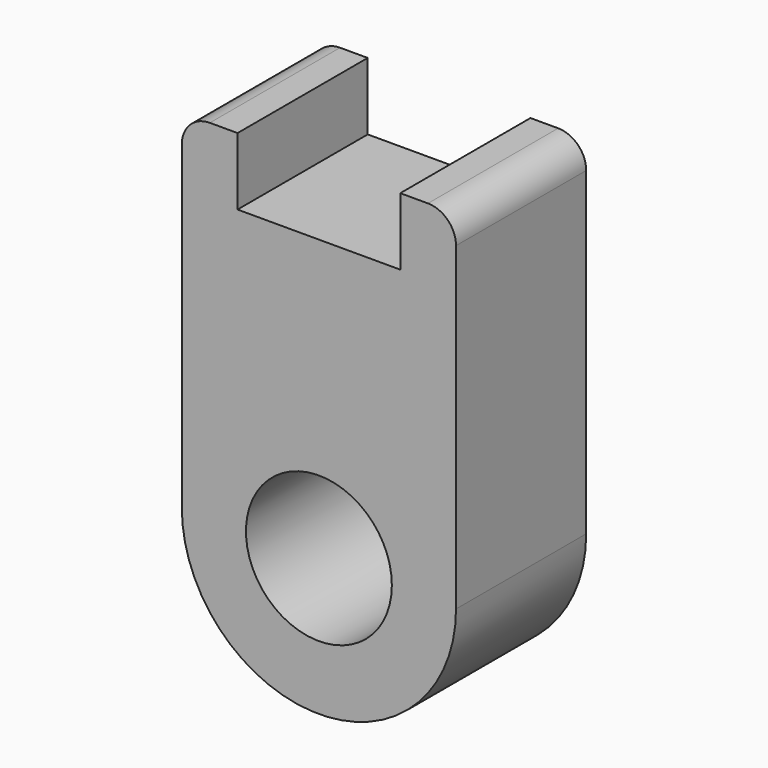
from build123d import *

# Parameters (mm, degrees)
F0_R     = 13
F1_DEPTH = 29


with BuildPart() as f1:
    # F0 (on Front) → F1 (new body)
    with BuildSketch(Plane.XZ):
        with BuildLine():
            Line((-14.5, 62), (-19.434803, 62))
            ThreePointArc((-19.434803, 62), (-22.970337, 60.535534), (-24.434803, 57))
            Line((-24.434803, 57), (-24.434803, 0))
            ThreePointArc((-24.434803, 0), (0, -24.434803), (24.434803, 0))
            Line((24.434803, 0), (24.434803, 57))
            ThreePointArc((24.434803, 57), (22.970337, 60.535534), (19.434803, 62))
            Line((19.434803, 62), (14.5, 62))
            Line((14.5, 62), (14.5, 50))
            Line((14.5, 50), (-14.5, 50))
            Line((-14.5, 50), (-14.5, 62))
        make_face()
        Circle(F0_R, mode=Mode.SUBTRACT)
    extrude(amount=F1_DEPTH)


solid = f1.part
